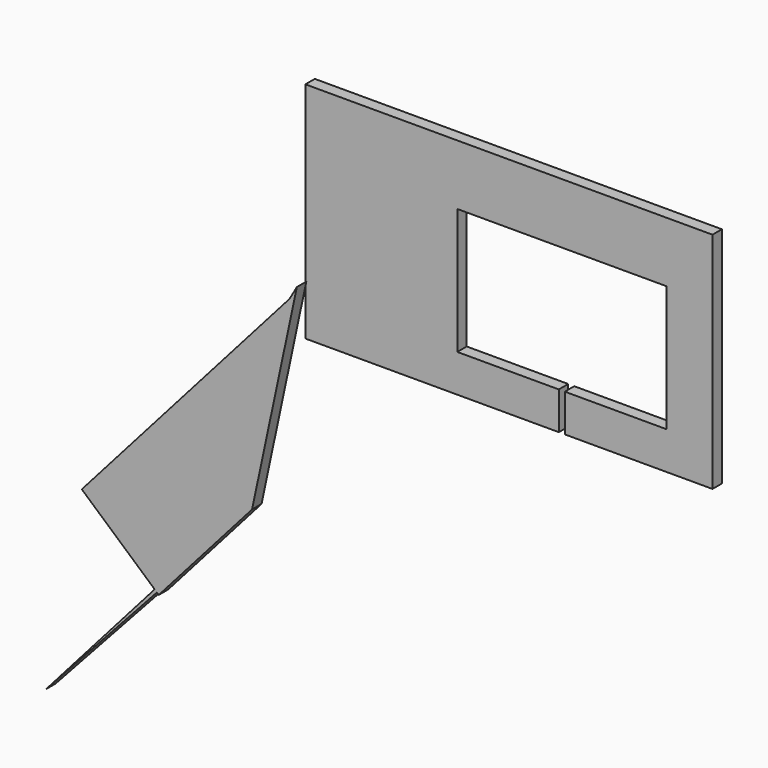
from build123d import *

# Parameters (mm, degrees)
F1_DEPTH = 25.4
F3_DEPTH = 25.4


with BuildPart() as f1:
    # F0 (on Front) → F1 (new body)
    with BuildSketch(Plane.XZ):
        Polygon((-225.129709, -0.009209), (-225.129709, 271.059185), (225.129709, 271.059185), (225.129709, -0.009209), (6.514072, -0.009209), (6.514072, -81.07692), (324.48566, -81.07692), (324.48566, 400.954455), (-552.228406, 400.954455), (-552.228406, -81.07692), (-6.514072, -81.07692), (-6.514072, -0.009209), align=None)
    extrude(amount=F1_DEPTH)

    # F2 (on face) → F3 (join)
    with BuildSketch(Plane.XZ.offset(25.4)):
        Polygon((-851.595676, -649.349046), (-646.670242, -425.28136), (-550.172269, 27.638257), (-566.065994, 0), (-1013.382764, -506.453147), (-856.426869, -645.081971), align=None)
        Polygon((-847.651422, -652.832747), (-646.670242, -425.28136), (-851.595676, -649.349046), align=None)
        Polygon((-1090.287447, -910.33721), (-851.595676, -649.349046), (-856.426869, -645.081971), align=None)
        Polygon((-851.595676, -649.349046), (-646.670242, -425.28136), (-552.228406, 17.987643), (-552.228406, 24.062755), (-566.065994, 0), (-1013.382764, -506.453147), (-856.426869, -645.081971), align=None)
    extrude(amount=F3_DEPTH)


solid = f1.part
